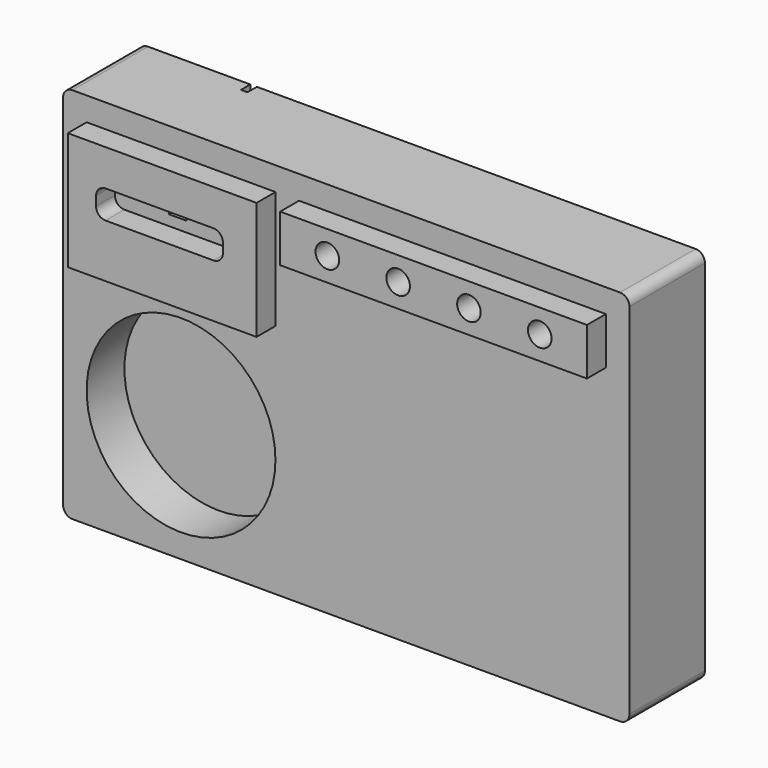
from build123d import *

# Parameters (mm, degrees)
F4_W      = 101.6
F4_H      = 63.5
F4_W_2    = 68.2498
F4_H_2    = 15.24
F5_DEPTH  = 12.7
F6_DEPTH  = 1.905
F3_W      = 165.1
F3_H      = 25.4
F3_R      = 6.35
F7_DEPTH  = 12.7
F8_DEPTH  = 50.8
F1_R      = 50.8
F9_DEPTH  = 25.4
F10_R     = 5.08
F11_R     = 5.08
F12_R     = 5.08
F13_R     = 5.08
F14_W     = 3.503367
F14_H     = 37.1094
F15_DEPTH = 6.35
F16_R     = 5.08


with BuildPart() as f5:
    # F4 (on face) → F5 (new body)
    with BuildSketch(Plane.XZ):
        with Locations((-85.089087, 57.625801)):
            Rectangle(F4_W, F4_H)
        with Locations((-86.524187, 62.197683)):
            Rectangle(F4_W_2, F4_H_2, mode=Mode.SUBTRACT)
    extrude(amount=F5_DEPTH)

    # F16
    f16_edges = [f5.edges().sort_by_distance(p)[0] for p in [
        (-120.649087, -6.35, 69.817683),
        (-52.399287, -6.35, 69.817683),
        (-120.649087, -6.35, 54.577683),
        (-52.399287, -6.35, 54.577683),
    ]]
    fillet(f16_edges, radius=F16_R)


with BuildPart() as f6:
    # F4 (on face) → F6 (new body)
    with BuildSketch(Plane.XZ):
        with Locations((-86.524187, 62.197683)):
            Rectangle(F4_W_2, F4_H_2)
        Polygon((-82.041087, 60.191201), (-91.566087, 60.191201), (-91.566087, 64.966401), (-88.340287, 64.966401), (-85.292287, 64.966401), (-82.041087, 64.966401), align=None, mode=Mode.SUBTRACT)
    extrude(amount=-F6_DEPTH)


with BuildPart() as f7:
    # F3 (on face) → F7 (new body)
    with BuildSketch(Plane.XZ):
        with Locations((60.960913, 76.675801)):
            Rectangle(F3_W, F3_H)
        with Locations((3.810913, 76.675801)):
            Circle(F3_R, mode=Mode.SUBTRACT)
        with Locations((41.910913, 76.675801)):
            Circle(F3_R, mode=Mode.SUBTRACT)
        with Locations((80.010913, 76.675801)):
            Circle(F3_R, mode=Mode.SUBTRACT)
        with Locations((118.110913, 76.675801)):
            Circle(F3_R, mode=Mode.SUBTRACT)
    extrude(amount=F7_DEPTH)


with BuildPart() as f8:
    # F0 (on Front) → F8 (new body)
    with BuildSketch(Plane.XZ):
        Polygon((-148.589087, -101.124199), (156.210913, -101.124199), (156.210913, 102.075801), (-85.292287, 102.075801), (-88.340287, 102.075801), (-148.589087, 102.075801), align=None)
        Polygon((-91.566087, 60.191201), (-91.566087, 64.966401), (-88.340287, 64.966401), (-85.292287, 64.966401), (-82.041087, 64.966401), (-82.041087, 60.191201), align=None, mode=Mode.SUBTRACT)
    extrude(amount=-F8_DEPTH)

    # F1 (on face) → F9 (cut)
    with BuildSketch(Plane.XZ):
        with Locations((-85.089087, -37.624199)):
            Circle(F1_R)
    extrude(amount=-F9_DEPTH, mode=Mode.SUBTRACT)

    # F10
    f10_edges = [f8.edges().sort_by_distance(p)[0] for p in [
        (156.210913, 25.4, -101.124199),
    ]]
    fillet(f10_edges, radius=F10_R)

    # F11
    f11_edges = [f8.edges().sort_by_distance(p)[0] for p in [
        (156.210913, 25.4, 102.075801),
    ]]
    fillet(f11_edges, radius=F11_R)

    # F12
    f12_edges = [f8.edges().sort_by_distance(p)[0] for p in [
        (-148.589087, 25.4, -101.124199),
    ]]
    fillet(f12_edges, radius=F12_R)

    # F13
    f13_edges = [f8.edges().sort_by_distance(p)[0] for p in [
        (-148.589087, 25.4, 102.075801),
    ]]
    fillet(f13_edges, radius=F13_R)

    # F14 (on face) → F15 (cut)
    with BuildSketch(Plane(origin=(0, 50.8, 0), x_dir=(-1, 0, 0), z_dir=(0, 1, 0))):
        with Locations((86.669877, 83.521101)):
            Rectangle(F14_W, F14_H)
    extrude(amount=-F15_DEPTH, mode=Mode.SUBTRACT)


solid = Compound([f5.part, f6.part, f7.part, f8.part])
